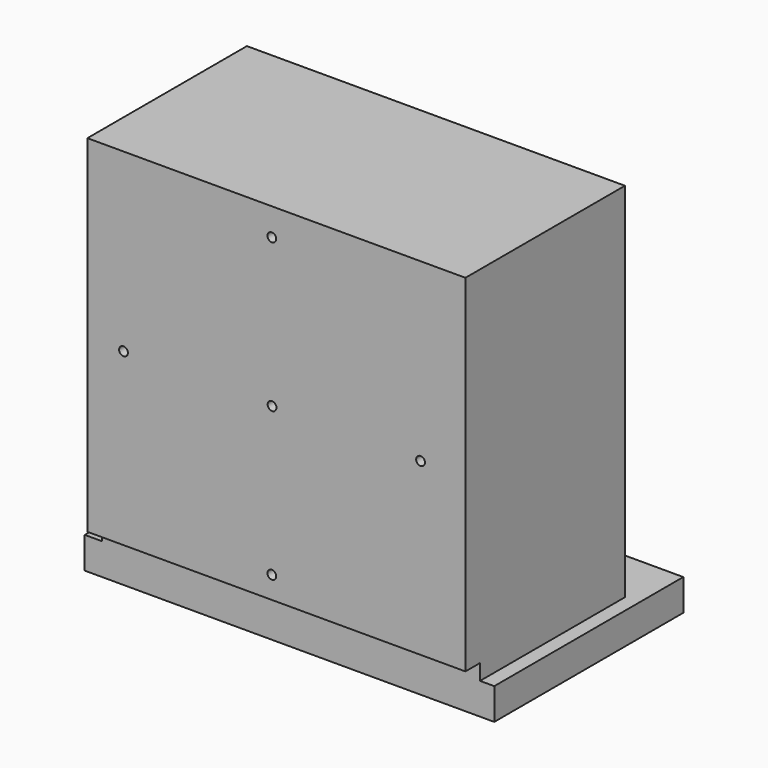
from build123d import *

# Parameters (mm, degrees)
F0_W     = 130
F0_H     = 75
F1_DEPTH = 10
F2_W     = 120
F2_H     = 57.4860367924
F3_DEPTH = 5
F5_DEPTH = 120
F7_D     = 2.794
F8_W     = 109.1061495245
F8_H     = 106.3687205315
F8_R     = 1.397
F9_DEPTH = 55


with BuildPart() as f1:
    # F0 (on Top) → F1 (new body)
    with BuildSketch(Plane.XY):
        with Locations((0.9653219581, -1.9211560488)):
            Rectangle(F0_W, F0_H)
    extrude(amount=F1_DEPTH)

    # F2 (on face) → F3 (join)
    with BuildSketch(Plane.XY.offset(10)):
        with Locations((1.4508789778, -10.6781376526)):
            Rectangle(F2_W, F2_H)
    extrude(amount=F3_DEPTH)

    # F4 (on face) → F5 (join)
    with BuildSketch(Plane(origin=(-58.5491210222, 0, 0), x_dir=(0, -1, 0), z_dir=(-1, 0, 0))):
        Polygon((-18.0648807436, 125), (-18.0648807436, 15), (39.4211560488, 15), (45.2204495668, 15), (45.2204495668, 125), align=None)
    extrude(amount=-F5_DEPTH)

    # F7 (through all)
    with Locations(Plane.XZ.offset(45.2204495668)):
        with Locations((0, 116.3231828261), (-47.0786592322, 69.1776266678), (0, 22.0320705095), (47.2125481423, 69.1776266678), (0.066944455, 69.1776266678)):
            Hole(F7_D / 2)

    # F8 (on face) → F9 (cut)
    with BuildSketch(Plane(origin=(0, 18.0648807436, 0), x_dir=(-1, 0, 0), z_dir=(0, 1, 0))):
        with Locations((-0.9776521474, 67.4301683903)):
            Rectangle(F8_W, F8_H)
        with Locations((0, 22.0320705095)):
            Circle(F8_R, mode=Mode.SUBTRACT)
        with Locations((-47.2125481423, 69.1776266678)):
            Circle(F8_R, mode=Mode.SUBTRACT)
        with Locations((-0.066944455, 69.1776266678)):
            Circle(F8_R, mode=Mode.SUBTRACT)
        with Locations((47.0786592322, 69.1776266678)):
            Circle(F8_R, mode=Mode.SUBTRACT)
        with Locations((0, 116.3231828261)):
            Circle(F8_R, mode=Mode.SUBTRACT)
    extrude(amount=-F9_DEPTH, mode=Mode.SUBTRACT)


solid = f1.part
